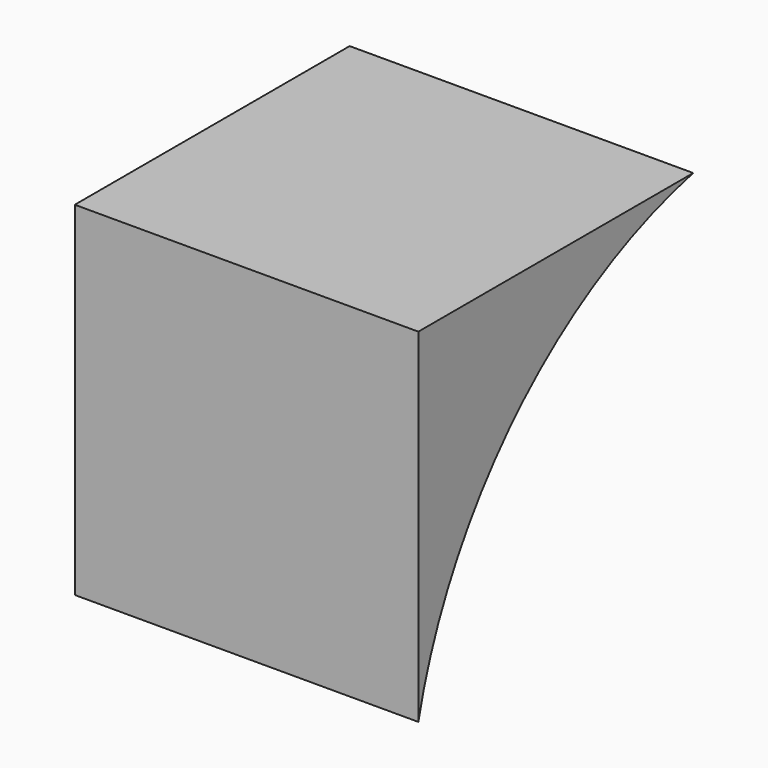
from build123d import *

# Parameters (mm, degrees)
F1_DEPTH = 152.4


with BuildPart() as f1:
    # F0 (on Right) → F1 (new body)
    with BuildSketch(Plane.YZ):
        with BuildLine():
            ThreePointArc((-76.118015, -75.24056), (-21.787992, 22.829417), (76.281985, 77.15944))
            Line((76.281985, 77.15944), (-76.118015, 77.15944))
            Line((-76.118015, 77.15944), (-76.118015, -75.24056))
        make_face()
    extrude(amount=F1_DEPTH)


solid = f1.part
